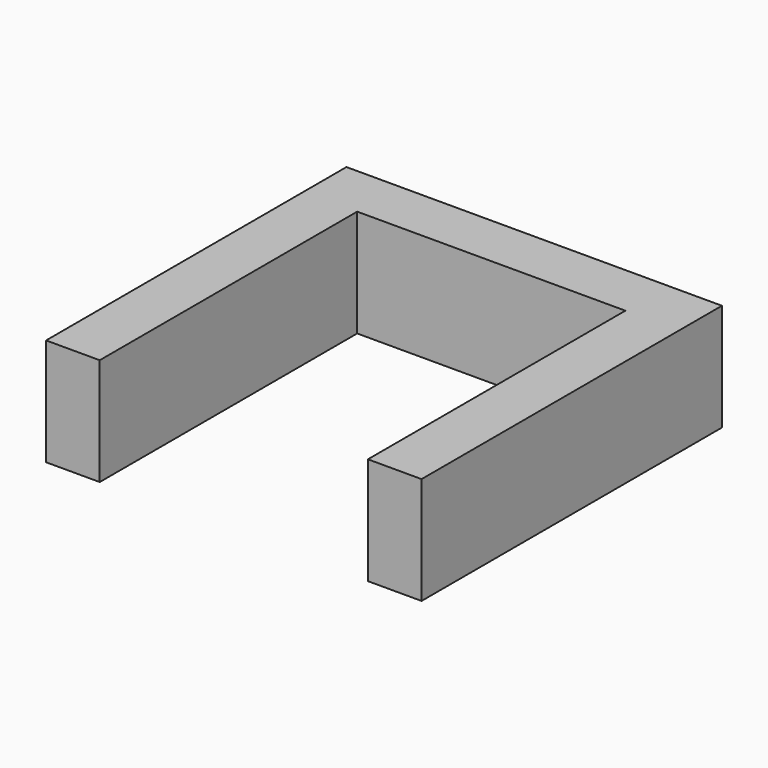
from build123d import *

# Parameters (mm, degrees)
F0_W     = 88.9
F0_H     = 88.9
F1_DEPTH = 12.7
F2_W     = 63.5
F2_H     = 76.2
F3_DEPTH = 25.401


with BuildPart() as f1:
    # F0 (on Top) → F1 (new body, symmetric)
    with BuildSketch(Plane.XY):
        Rectangle(F0_W, F0_H)
    extrude(amount=F1_DEPTH, both=True)

    # F2 (on face) → F3 (cut, through all)
    with BuildSketch(Plane.XY.offset(12.7)):
        with Locations((0, -6.35)):
            Rectangle(F2_W, F2_H)
    extrude(amount=-F3_DEPTH, mode=Mode.SUBTRACT)


solid = f1.part
